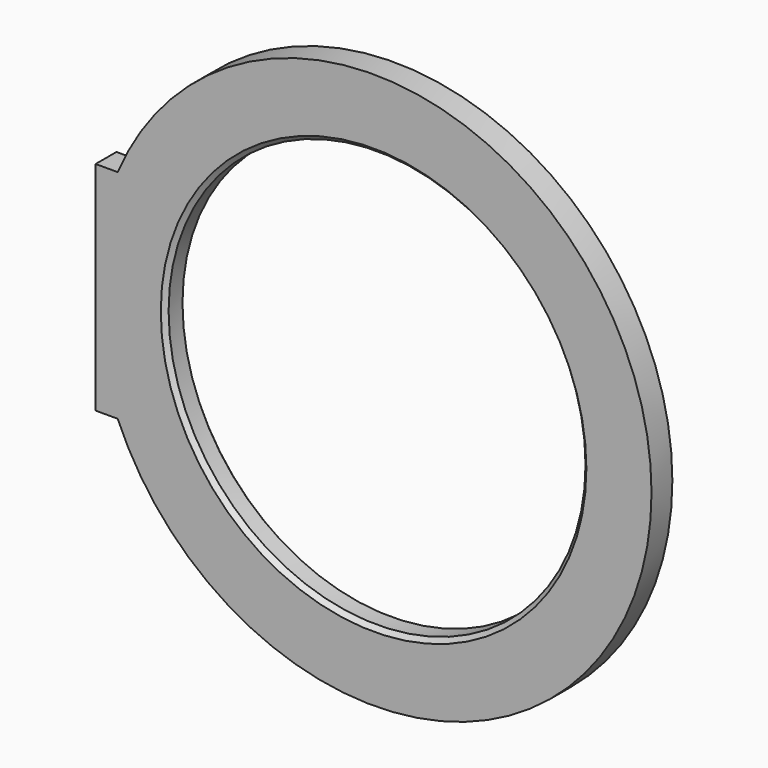
from build123d import *

# Parameters (mm, degrees)
F0_R     = 152.4
F1_DEPTH = 19.05
F2_SIZE  = 3.175


with BuildPart() as f1:
    # F0 (on Front) → F1 (new body)
    with BuildSketch(Plane.XZ):
        with BuildLine():
            Line((-203.2, -79.375), (-187.055739, -79.375))
            ThreePointArc((-187.055739, -79.375), (203.2, 0), (-187.055739, 79.375))
            Line((-187.055739, 79.375), (-203.2, 79.375))
            Line((-203.2, 79.375), (-203.2, -79.375))
        make_face()
        Circle(F0_R, mode=Mode.SUBTRACT)
    extrude(amount=F1_DEPTH)

    # F2
    f2_edges = [f1.edges().sort_by_distance(p)[0] for p in [
        (-152.4, -19.05, 0),
        (-152.4, 0, 0),
    ]]
    chamfer(f2_edges, length=F2_SIZE)


solid = f1.part
